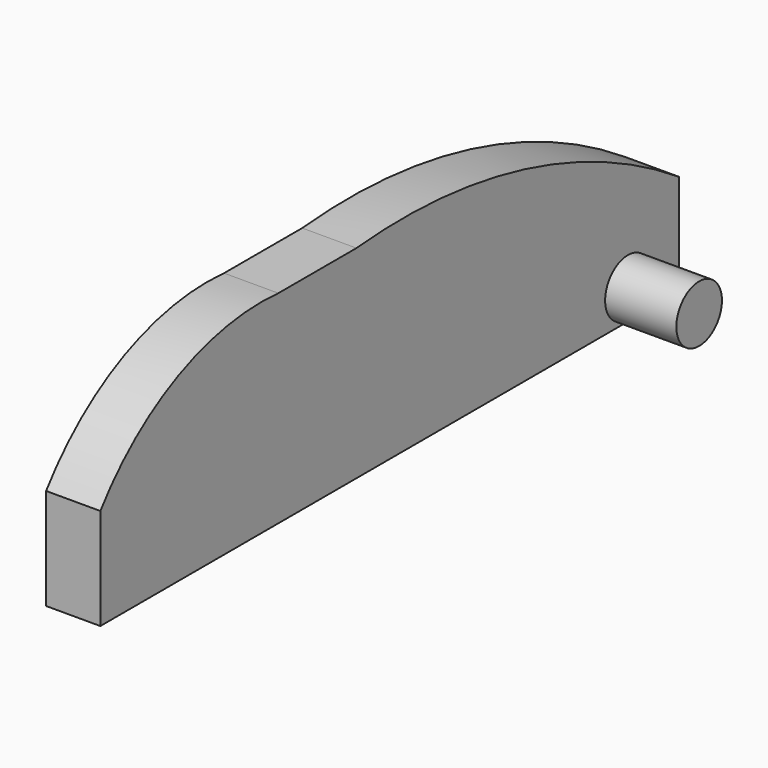
from build123d import *

# Parameters (mm, degrees)
PAD_DEPTH    = 3.81
SKETCH001_R  = 2
PAD001_DEPTH = 5


with BuildPart() as part:
    # Sketch → Pad (new body)
    with BuildSketch(Plane.YZ):
        with BuildLine():
            Line((50.8, 7.112), (50.8, 0))
            Line((50.8, 0), (0, 0))
            Line((0, 0), (0, 7.112))
            ThreePointArc((15.621017, 14.224002), (6.878912, 12.714188), (0, 7.112))
            Line((15.621017, 14.224002), (22.479017, 14.224002))
            ThreePointArc((50.8, 7.112), (37.249044, 13.095258), (22.479017, 14.224002))
        make_face()
    extrude(amount=PAD_DEPTH)

    # Sketch001 (on Face8 of Pad) → Pad001 (join)
    with BuildSketch(Plane.YZ.offset(3.81)):
        with Locations((46.3, 2.112)):
            Circle(SKETCH001_R)
    extrude(amount=PAD001_DEPTH)


solid = part.part
